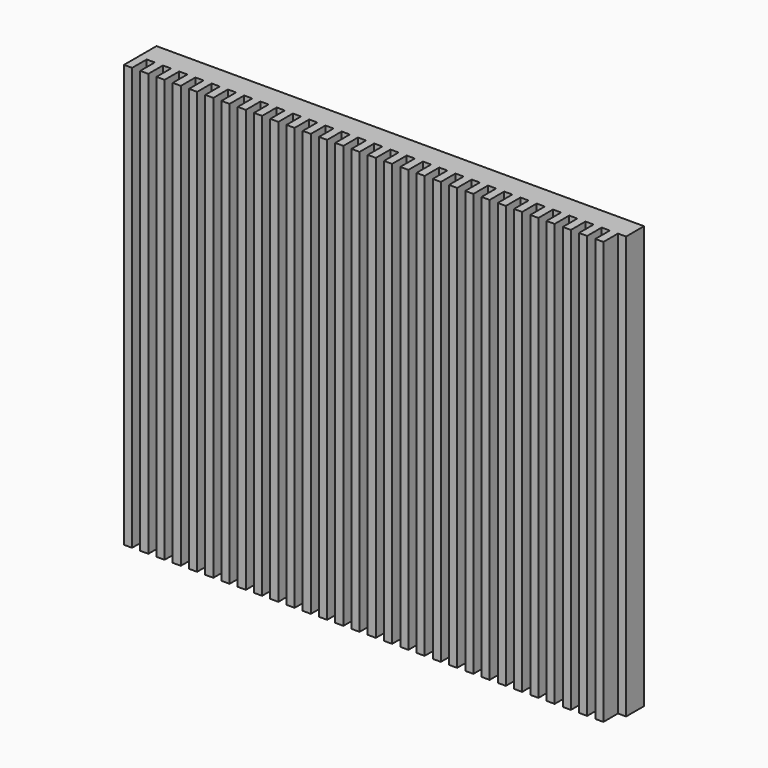
from build123d import *

# Parameters (mm, degrees)
F0_W     = 300
F0_H     = 260
F1_DEPTH = 25
F2_W     = 5
F2_H     = 260
F3_DEPTH = 11.2


with BuildPart() as f1:
    # F0 (on Front) → F1 (new body)
    with BuildSketch(Plane.XZ):
        with Locations((150, 130)):
            Rectangle(F0_W, F0_H)
    extrude(amount=-F1_DEPTH)

    # F2 (on face) → F3 (cut)
    with BuildSketch(Plane.XZ):
        with Locations((7.5, 130)):
            Rectangle(F2_W, F2_H)
        with Locations((17.5, 130)):
            Rectangle(F2_W, F2_H)
        with Locations((27.5, 130)):
            Rectangle(F2_W, F2_H)
        with Locations((37.5, 130)):
            Rectangle(F2_W, F2_H)
        with Locations((47.5, 130)):
            Rectangle(F2_W, F2_H)
        with Locations((57.5, 130)):
            Rectangle(F2_W, F2_H)
        with Locations((67.5, 130)):
            Rectangle(F2_W, F2_H)
        with Locations((77.5, 130)):
            Rectangle(F2_W, F2_H)
        with Locations((87.5, 130)):
            Rectangle(F2_W, F2_H)
        with Locations((97.5, 130)):
            Rectangle(F2_W, F2_H)
        with Locations((107.5, 130)):
            Rectangle(F2_W, F2_H)
        with Locations((117.5, 130)):
            Rectangle(F2_W, F2_H)
        with Locations((127.5, 130)):
            Rectangle(F2_W, F2_H)
        with Locations((137.5, 130)):
            Rectangle(F2_W, F2_H)
        with Locations((147.5, 130)):
            Rectangle(F2_W, F2_H)
        with Locations((157.5, 130)):
            Rectangle(F2_W, F2_H)
        with Locations((167.5, 130)):
            Rectangle(F2_W, F2_H)
        with Locations((177.5, 130)):
            Rectangle(F2_W, F2_H)
        with Locations((187.5, 130)):
            Rectangle(F2_W, F2_H)
        with Locations((197.5, 130)):
            Rectangle(F2_W, F2_H)
        with Locations((207.5, 130)):
            Rectangle(F2_W, F2_H)
        with Locations((217.5, 130)):
            Rectangle(F2_W, F2_H)
        with Locations((227.5, 130)):
            Rectangle(F2_W, F2_H)
        with Locations((237.5, 130)):
            Rectangle(F2_W, F2_H)
        with Locations((247.5, 130)):
            Rectangle(F2_W, F2_H)
        with Locations((257.5, 130)):
            Rectangle(F2_W, F2_H)
        with Locations((267.5, 130)):
            Rectangle(F2_W, F2_H)
        with Locations((277.5, 130)):
            Rectangle(F2_W, F2_H)
        with Locations((287.5, 130)):
            Rectangle(F2_W, F2_H)
        with Locations((297.5, 130)):
            Rectangle(F2_W, F2_H)
        with Locations((307.5, 130)):
            Rectangle(F2_W, F2_H)
        with Locations((317.5, 130)):
            Rectangle(F2_W, F2_H)
        with Locations((327.5, 130)):
            Rectangle(F2_W, F2_H)
        with Locations((337.5, 130)):
            Rectangle(F2_W, F2_H)
        with Locations((347.5, 130)):
            Rectangle(F2_W, F2_H)
        with Locations((357.5, 130)):
            Rectangle(F2_W, F2_H)
        with Locations((367.5, 130)):
            Rectangle(F2_W, F2_H)
        with Locations((377.5, 130)):
            Rectangle(F2_W, F2_H)
        with Locations((387.5, 130)):
            Rectangle(F2_W, F2_H)
        with Locations((397.5, 130)):
            Rectangle(F2_W, F2_H)
        with Locations((407.5, 130)):
            Rectangle(F2_W, F2_H)
        with Locations((417.5, 130)):
            Rectangle(F2_W, F2_H)
        with Locations((427.5, 130)):
            Rectangle(F2_W, F2_H)
        with Locations((437.5, 130)):
            Rectangle(F2_W, F2_H)
        with Locations((447.5, 130)):
            Rectangle(F2_W, F2_H)
        with Locations((457.5, 130)):
            Rectangle(F2_W, F2_H)
        with Locations((467.5, 130)):
            Rectangle(F2_W, F2_H)
        with Locations((477.5, 130)):
            Rectangle(F2_W, F2_H)
        with Locations((487.5, 130)):
            Rectangle(F2_W, F2_H)
        with Locations((497.5, 130)):
            Rectangle(F2_W, F2_H)
    extrude(amount=-F3_DEPTH, mode=Mode.SUBTRACT)


solid = f1.part
